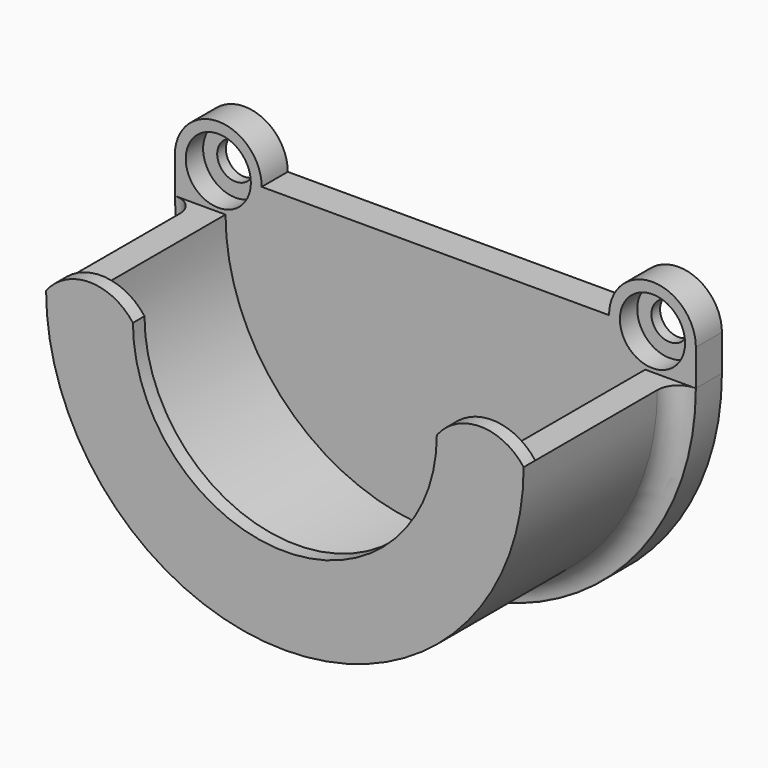
from build123d import *

# Parameters (mm, degrees)
SKETCH_R     = 2.55
PAD_DEPTH    = 4.5
PAD001_DEPTH = 24
PAD002_DEPTH = 2
SKETCH004_R  = 4.5
POCKET_DEPTH = 3
FILLET_R     = 2.9


with BuildPart() as part:
    # Sketch → Pad (new body)
    with BuildSketch(Plane.XZ):
        with BuildLine():
            Line((-36, 5), (-36, 0))
            ThreePointArc((-36, 0), (0, -36), (36, 0))
            Line((36, 5), (36, 0))
            ThreePointArc((36, 5), (30, 11), (24, 5))
            Line((-24, 5), (24, 5))
            ThreePointArc((-24, 5), (-30, 11), (-36, 5))
        make_face()
        with Locations((-30, 5)):
            Circle(SKETCH_R, mode=Mode.SUBTRACT)
        with Locations((30, 5)):
            Circle(SKETCH_R, mode=Mode.SUBTRACT)
    extrude(amount=PAD_DEPTH)

    # Sketch002 (on Face10 of Pad) → Pad001 (join)
    with BuildSketch(Plane.XZ.offset(4.5)):
        with BuildLine():
            ThreePointArc((-33, 0), (0, -33), (33, 0))
            Line((29, 0), (33, 0))
            ThreePointArc((-29, 0), (0, -29), (29, 0))
            Line((-33, 0), (-29, 0))
        make_face()
    extrude(amount=PAD001_DEPTH)

    # Sketch003 (on Face15 of Pad001) → Pad002 (join)
    with BuildSketch(Plane.XZ.offset(28.5)):
        with BuildLine():
            ThreePointArc((-33, 0), (0, -33), (33, 0))
            ThreePointArc((33, 0), (27, 3), (21, 0))
            ThreePointArc((-21, 0), (0, -21), (21, 0))
            ThreePointArc((-21, 0), (-27, 3), (-33, 0))
        make_face()
    extrude(amount=PAD002_DEPTH)

    # Sketch004 (on Face10 of Pad) → Pocket (cut)
    with BuildSketch(Plane.XZ.offset(4.5)):
        with Locations((-30, 5)):
            Circle(SKETCH004_R)
        with Locations((30, 5)):
            Circle(SKETCH004_R)
    extrude(amount=-POCKET_DEPTH, mode=Mode.SUBTRACT)

    # Fillet
    fillet_edges = [part.edges().sort_by_distance(p)[0] for p in [
        (0, -4.5, -33),
    ]]
    fillet(fillet_edges, radius=FILLET_R)


solid = part.part
